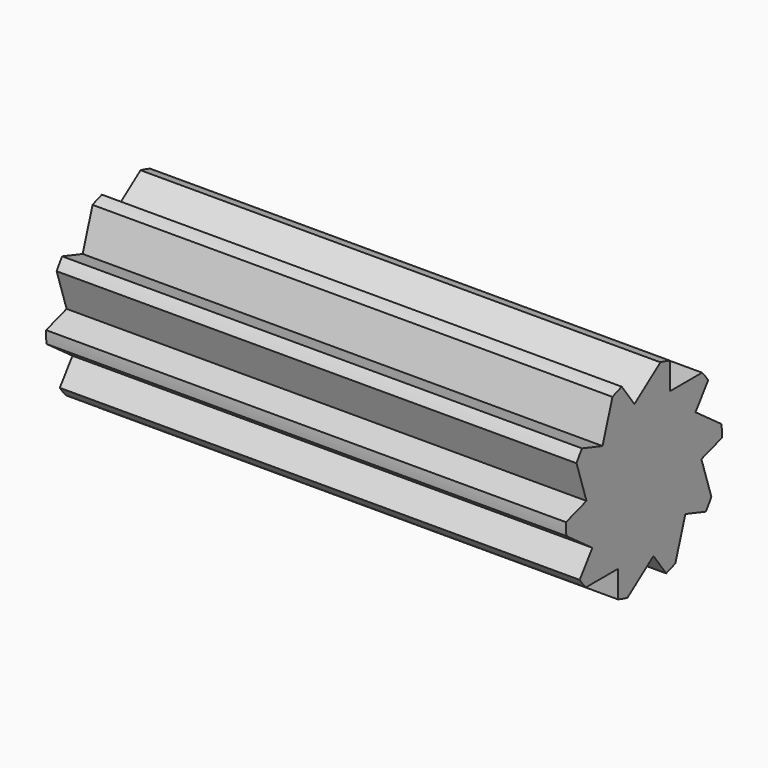
from build123d import *

# Parameters (mm, degrees)
F0_R     = 38.1
F1_DEPTH = 203.2
F3_DEPTH = 228.6


with BuildPart() as f1:
    # F0 (on Right) → F1 (new body)
    with BuildSketch(Plane.YZ):
        Circle(F0_R)
    extrude(amount=F1_DEPTH)

    # F2 (on face) → F3 (cut)
    with BuildSketch(Plane.YZ.offset(203.2)):
        with BuildLine():
            Line((12.7, 35.9210244843), (12.7, 25.4))
            Line((12.7, 25.4), (28.3980633142, 25.4))
            ThreePointArc((28.3980633142, 25.4), (21.211687606, 31.6492386781), (12.7, 35.9210244843))
        make_face()
        with BuildLine():
            ThreePointArc((37.9042612368, 3.8570688473), (35.7635714939, 13.1368547986), (31.3883642677, 21.595846559))
            Line((31.3883642677, 21.595846559), (25.2042612368, 13.084158953))
            Line((25.2042612368, 13.084158953), (37.9042612368, 3.8570688473))
        make_face()
        with BuildLine():
            ThreePointArc((32.9323196853, -19.1591315081), (36.6549866302, -10.3933611087), (38.0874402363, -0.9782107359))
            Line((38.0874402363, -0.9782107359), (28.0813513425, -4.2293860998))
            Line((28.0813513425, -4.2293860998), (32.9323196853, -19.1591315081))
        make_face()
        with BuildLine():
            ThreePointArc((15.3813513425, -34.8571948223), (23.545442731, -29.9536663299), (30.2384085792, -23.1786247779))
            Line((30.2384085792, -23.1786247779), (20.2323196853, -19.9274494141))
            Line((20.2323196853, -19.9274494141), (15.3813513425, -34.8571948223))
        make_face()
        with BuildLine():
            Line((-4.6552295797, 28.0139043612), (8.0447704203, 37.2409944669))
            ThreePointArc((8.0447704203, 37.2409944669), (-1.4423399886, 38.0726891007), (-10.8393326105, 36.5255919673))
            Line((-10.8393326105, 36.5255919673), (-4.6552295797, 28.0139043612))
        make_face()
        with BuildLine():
            Line((-25.2042612368, -13.084158953), (-37.9042612368, -3.8570688473))
            ThreePointArc((-37.9042612368, -3.8570688473), (-35.7635714939, -13.1368547986), (-31.3883642677, -21.595846559))
            Line((-31.3883642677, -21.595846559), (-25.2042612368, -13.084158953))
        make_face()
        with BuildLine():
            Line((-12.7, -25.4), (-28.3980633142, -25.4))
            ThreePointArc((-28.3980633142, -25.4), (-21.211687606, -31.6492386781), (-12.7, -35.9210244843))
            Line((-12.7, -35.9210244843), (-12.7, -25.4))
        make_face()
        with BuildLine():
            ThreePointArc((-8.0447704203, -37.2409944669), (1.4423399886, -38.0726891007), (10.8393326105, -36.5255919673))
            Line((10.8393326105, -36.5255919673), (4.6552295797, -28.0139043612))
            Line((4.6552295797, -28.0139043612), (-8.0447704203, -37.2409944669))
        make_face()
        with BuildLine():
            Line((-28.0813513425, 4.2293860998), (-32.9323196853, 19.1591315081))
            ThreePointArc((-32.9323196853, 19.1591315081), (-36.6549866302, 10.3933611087), (-38.0874402363, 0.9782107359))
            Line((-38.0874402363, 0.9782107359), (-28.0813513425, 4.2293860998))
        make_face()
        with BuildLine():
            Line((-20.2323196853, 19.9274494141), (-15.3813513425, 34.8571948223))
            ThreePointArc((-15.3813513425, 34.8571948223), (-23.545442731, 29.9536663299), (-30.2384085792, 23.1786247779))
            Line((-30.2384085792, 23.1786247779), (-20.2323196853, 19.9274494141))
        make_face()
    extrude(amount=-F3_DEPTH, mode=Mode.SUBTRACT)


solid = f1.part
